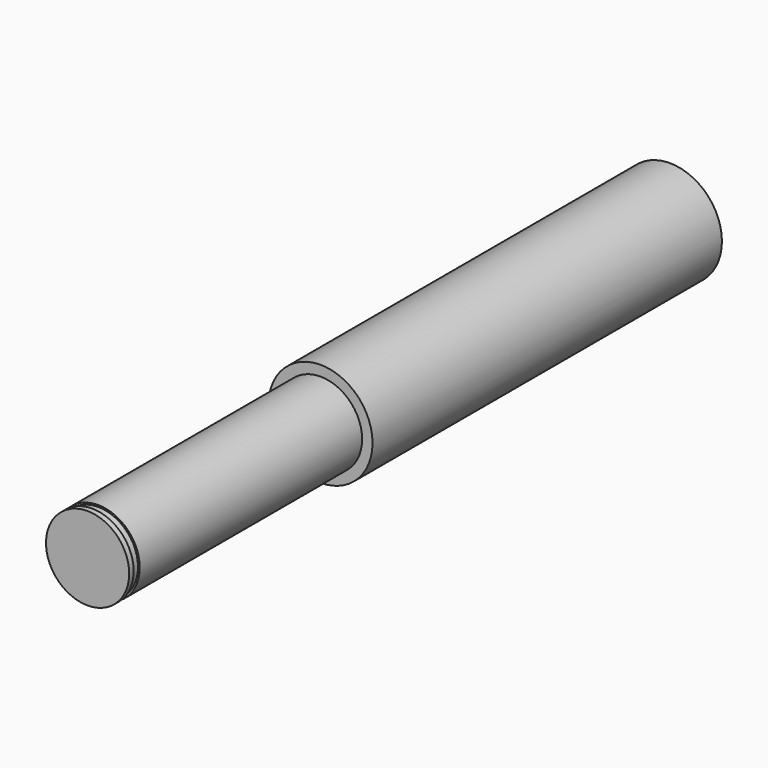
from build123d import *

# Parameters (mm, degrees)
F0_R     = 7.5
F1_DEPTH = 105
F2_R     = 7.5
F2_R_2   = 6
F3_DEPTH = 42
F5_R     = 6
F5_R_2   = 5.75
F6_DEPTH = 1.1


with BuildPart() as f1:
    # F0 (on Front) → F1 (new body)
    with BuildSketch(Plane.XZ):
        Circle(F0_R)
    extrude(amount=F1_DEPTH)

    # F2 (on face) → F3 (cut)
    with BuildSketch(Plane.XZ.offset(105)):
        Circle(F2_R)
        Circle(F2_R_2, mode=Mode.SUBTRACT)
    extrude(amount=-F3_DEPTH, mode=Mode.SUBTRACT)

    # F5 (on offset) → F6 (cut)
    with BuildSketch(Plane.XZ.offset(104.2)):
        Circle(F5_R)
        Circle(F5_R_2, mode=Mode.SUBTRACT)
    extrude(amount=-F6_DEPTH, mode=Mode.SUBTRACT)


solid = f1.part
